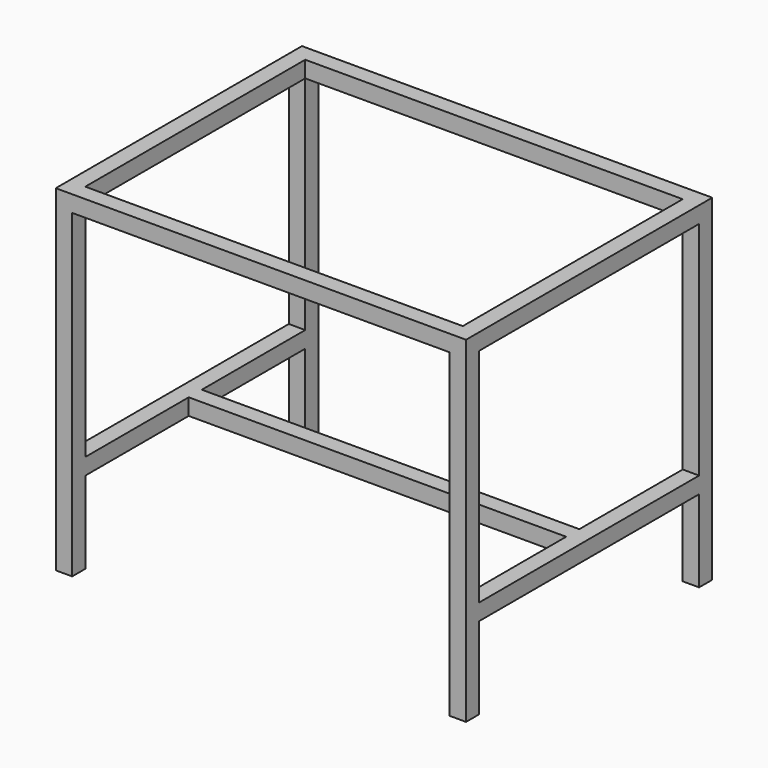
from build123d import *

# Parameters (mm, degrees)
F0_W     = 1000
F0_H     = 750
F1_DEPTH = 40
F2_W     = 40
F2_H     = 40
F3_DEPTH = 780
F4_W     = 40
F4_H     = 40
F5_DEPTH = 670
F6_W     = 40
F6_H     = 40
F7_DEPTH = 670
F8_W     = 40
F8_H     = 40
F9_DEPTH = 920


with BuildPart() as f1:
    # F0 (on Top) → F1 (new body)
    with BuildSketch(Plane.XY):
        Rectangle(F0_W, F0_H)
        Polygon((0, 335), (460, 335), (460, -335), (0, -335), (-460, -335), (-460, 335), align=None, mode=Mode.SUBTRACT)
    extrude(amount=F1_DEPTH)

    # F2 (on face) → F3 (join)
    with BuildSketch(Plane(origin=(0, 0, 0), x_dir=(1, 0, 0), z_dir=(0, 0, -1))):
        with Locations((-480, -355)):
            Rectangle(F2_W, F2_H)
        with Locations((-480, 355)):
            Rectangle(F2_W, F2_H)
        with Locations((480, 355)):
            Rectangle(F2_W, F2_H)
        with Locations((480, -355)):
            Rectangle(F2_W, F2_H)
    extrude(amount=F3_DEPTH)

    # F4 (on face) → F5 (join)
    with BuildSketch(Plane.XZ.offset(-335)):
        with Locations((-480, -560)):
            Rectangle(F4_W, F4_H)
    extrude(amount=F5_DEPTH)

    # F6 (on face) → F7 (join)
    with BuildSketch(Plane.XZ.offset(-335)):
        with Locations((480, -560)):
            Rectangle(F6_W, F6_H)
    extrude(amount=F7_DEPTH)

    # F8 (on face) → F9 (join)
    with BuildSketch(Plane(origin=(460, 0, 0), x_dir=(0, -1, 0), z_dir=(-1, 0, 0))):
        with Locations((0, -560)):
            Rectangle(F8_W, F8_H)
    extrude(amount=F9_DEPTH)


solid = f1.part
